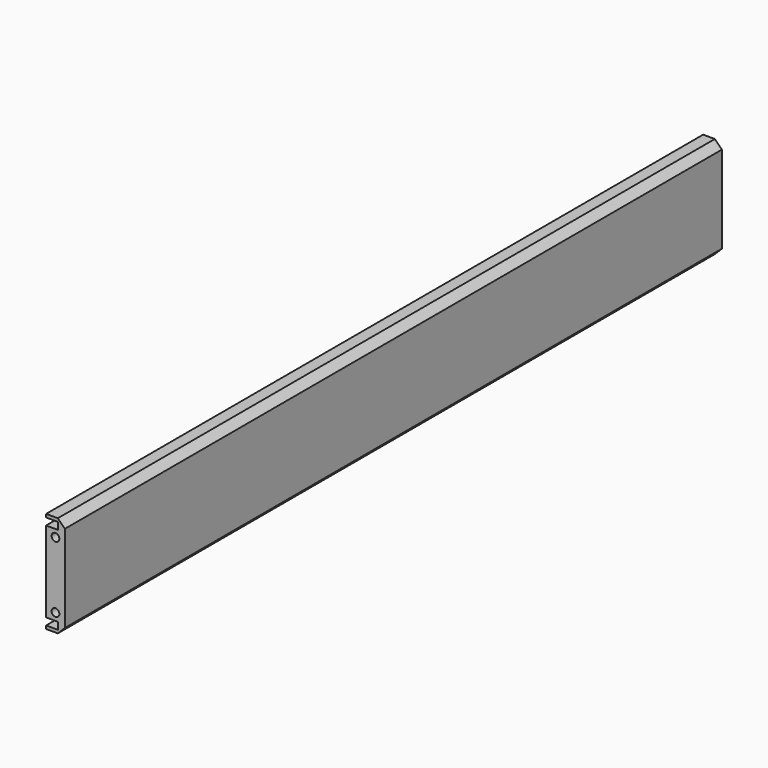
from build123d import *

# Parameters (mm, degrees)
F1_DEPTH = 350
F2_SIZE  = 3
F4_D     = 3.3
F4_DEPTH = 14.1
F4_TIP   = 0.9914200214
F6_D     = 3.3
F6_DEPTH = 14.1
F6_TIP   = 0.9914200214


with BuildPart() as f1:
    # F0 (on Front) → F1 (new body)
    with BuildSketch(Plane.XZ):
        Polygon((5, 29.5), (0, 29.5), (0, -5), (5, -5), (5, -8), (0, -8), (0, -9.35), (8, -9.35), (8, 33.85), (0, 33.85), (0, 32.5), (5, 32.5), align=None)
    extrude(amount=F1_DEPTH)

    # F2
    f2_edges = [f1.edges().sort_by_distance(p)[0] for p in [
        (8, -175, 33.85),
        (8, -175, -9.35),
    ]]
    chamfer(f2_edges, length=F2_SIZE)

    # F4
    with Locations(Plane.XZ.offset(350)):
        with Locations((4, 26.35), (4, -1.85)):
            Hole(F4_D / 2, depth=F4_DEPTH)
            with Locations((0, 0, -(F4_DEPTH + F4_TIP / 2))):  # 118° drill point
                Cone(0, F4_D / 2, F4_TIP, mode=Mode.SUBTRACT)

    # F6
    with Locations(Plane(origin=(0, 0, 0), x_dir=(-1, 0, 0), z_dir=(0, 1, 0))):
        with Locations((-4, 26.35), (-4, -1.85)):
            Hole(F6_D / 2, depth=F6_DEPTH)
            with Locations((0, 0, -(F6_DEPTH + F6_TIP / 2))):  # 118° drill point
                Cone(0, F6_D / 2, F6_TIP, mode=Mode.SUBTRACT)


with BuildPart() as f7_1:
    # F7: copy of F1
    add(f1.part)


solid = Compound([f1.part, f7_1.part])
